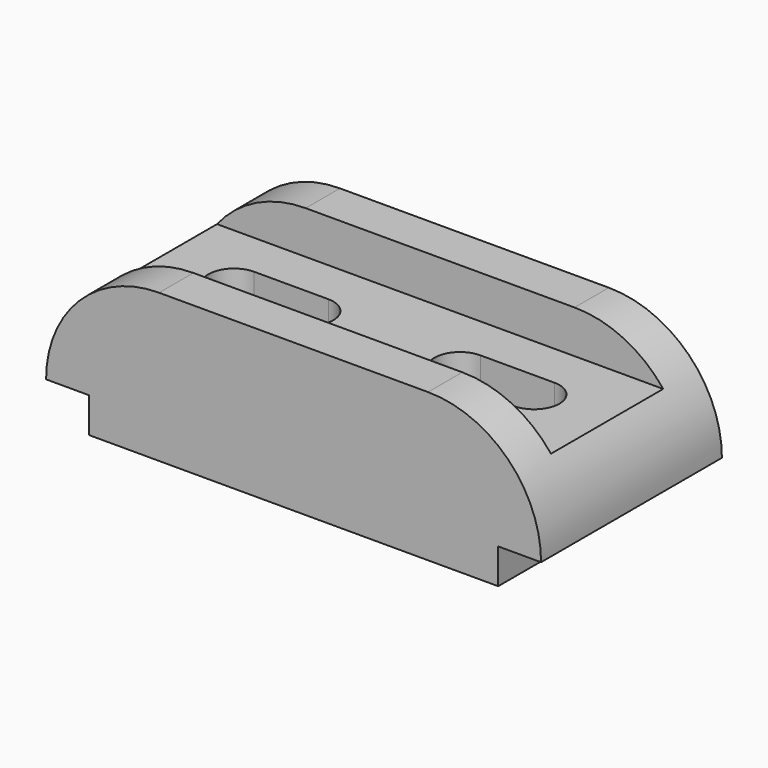
from build123d import *

# Parameters (mm, degrees)
F1_DEPTH = 58
F2_W     = 127
F2_H     = 36
F3_DEPTH = 11
F5_DEPTH = 27.001


with BuildPart() as f1:
    # F0 (on Front) → F1 (new body)
    with BuildSketch(Plane.XZ):
        with BuildLine():
            ThreePointArc((-34.5, 38), (-55.006097, 29.506097), (-63.5, 9))
            Line((-63.5, 9), (-52.5, 9))
            Line((-52.5, 9), (-52.5, 0))
            Line((-52.5, 0), (52.5, 0))
            Line((52.5, 0), (52.5, 9))
            Line((52.5, 9), (63.5, 9))
            ThreePointArc((63.5, 9), (55.006097, 29.506097), (34.5, 38))
            Line((34.5, 38), (-34.5, 38))
        make_face()
    extrude(amount=F1_DEPTH)

    # F2 (on face) → F3 (cut)
    with BuildSketch(Plane.XY.offset(38)):
        with Locations((0, -29)):
            Rectangle(F2_W, F2_H)
    extrude(amount=-F3_DEPTH, mode=Mode.SUBTRACT)

    # F4 (on face) → F5 (cut, through all)
    with BuildSketch(Plane.XY.offset(27)):
        with BuildLine():
            Line((-19.5, -22.5), (-38.5, -22.5))
            ThreePointArc((-38.5, -22.5), (-45, -29), (-38.5, -35.5))
            Line((-38.5, -35.5), (-19.5, -35.5))
            ThreePointArc((-19.5, -35.5), (-13, -29), (-19.5, -22.5))
        make_face()
        with BuildLine():
            Line((38.5, -22.5), (19.5, -22.5))
            ThreePointArc((19.5, -22.5), (13, -29), (19.5, -35.5))
            Line((19.5, -35.5), (38.5, -35.5))
            ThreePointArc((38.5, -35.5), (45, -29), (38.5, -22.5))
        make_face()
    extrude(amount=-F5_DEPTH, mode=Mode.SUBTRACT)


solid = f1.part
